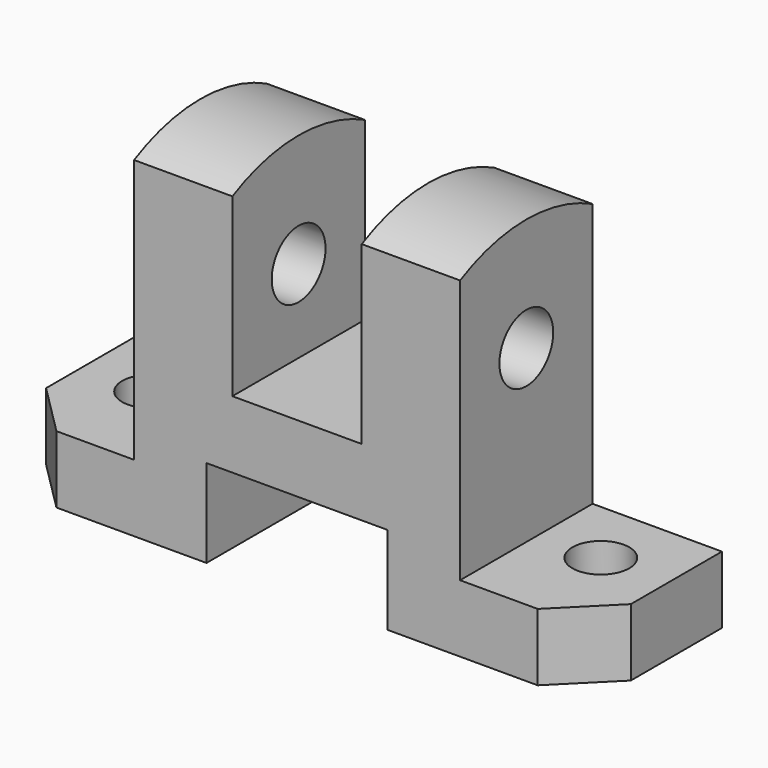
from build123d import *

# Parameters (mm, degrees)
F0_W      = 10
F0_H      = 13
F1_DEPTH  = 32
F3_DEPTH  = 25
F4_R      = 5.5
F5_DEPTH  = 13.001
F6_R      = 6.5
F7_DEPTH  = 88.001
F8_DEPTH  = 19
F10_DEPTH = 19


with BuildPart() as f1:
    # F0 (on Front) → F1 (new body)
    with BuildSketch(Plane.XZ):
        with Locations((5, 6.5)):
            Rectangle(F0_W, F0_H)
        Polygon((10, 13), (10, 0), (39, 0), (39, 17), (74, 17), (74, 0), (103, 0), (103, 13), (88, 13), (88, 64), (69, 64), (69, 30), (44, 30), (44, 64), (25, 64), (25, 13), align=None)
        with Locations((108, 6.5)):
            Rectangle(F0_W, F0_H)
    extrude(amount=-F1_DEPTH)

    # F2 (on face) → F3 (cut)
    with BuildSketch(Plane.XY.offset(13)):
        Polygon((0, 0), (10, 0), (0, 10), align=None)
        Polygon((113, 10), (103, 0), (113, 0), align=None)
    extrude(amount=-F3_DEPTH, mode=Mode.SUBTRACT)

    # F4 (on face) → F5 (cut, through all)
    with BuildSketch(Plane.XY.offset(13)):
        with Locations((13, 19)):
            Circle(F4_R)
        with Locations((100, 19)):
            Circle(F4_R)
    extrude(amount=-F5_DEPTH, mode=Mode.SUBTRACT)

    # F6 (on face) → F7 (cut, through all)
    with BuildSketch(Plane.YZ.offset(88)):
        with Locations((16, 46)):
            Circle(F6_R)
    extrude(amount=-F7_DEPTH, mode=Mode.SUBTRACT)

    # F6 (on face) → F8 (join)
    with BuildSketch(Plane.YZ.offset(88)):
        with BuildLine():
            Line((0, 64), (32, 64))
            ThreePointArc((32, 64), (16, 67.871235), (0, 64))
        make_face()
    extrude(amount=-F8_DEPTH)

    # F9 (on face) → F10 (join)
    with BuildSketch(Plane(origin=(25, 0, 0), x_dir=(0, -1, 0), z_dir=(-1, 0, 0))):
        with BuildLine():
            Line((-32, 64), (0, 64))
            ThreePointArc((0, 64), (-16, 67.871235), (-32, 64))
        make_face()
    extrude(amount=-F10_DEPTH)


solid = f1.part
